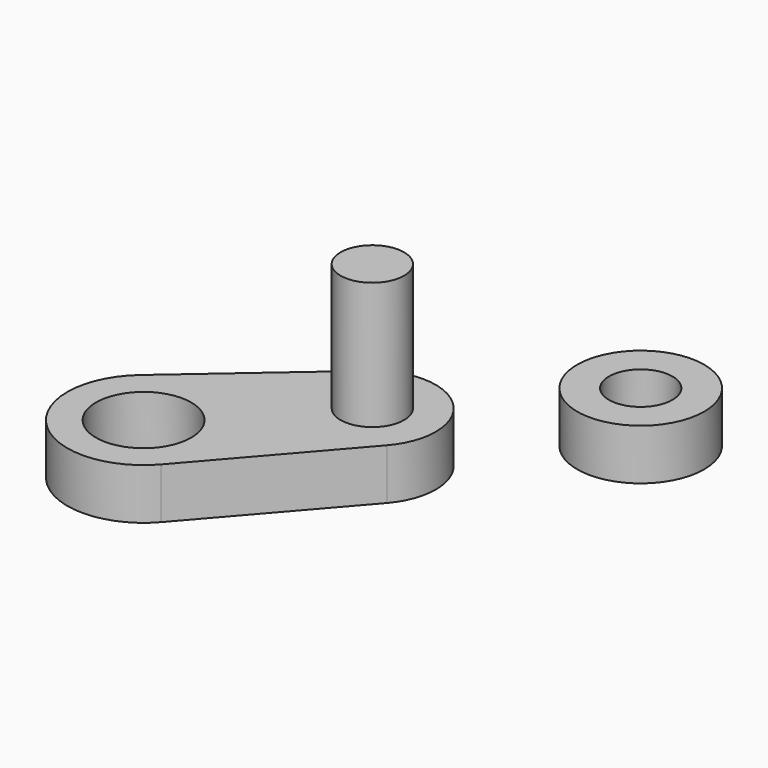
from build123d import *

# Parameters (mm, degrees)
F5_DEPTH = 2
F3_R     = 1.875
F6_DEPTH = 25
F2_R     = 1.25
F7_DEPTH = 7
F8_R     = 2.5
F8_R_2   = 1.25
F9_DEPTH = 2


with BuildPart() as f5:
    # F4 (on Top) → F5 (new body)
    with BuildSketch(Plane.XY):
        with BuildLine():
            Line((-29.638342, 9.888342), (-34.96601, 5.26601))
            ThreePointArc((-34.96601, 5.26601), (-35.12132, 0.87868), (-30.73399, 1.03399))
            Line((-30.73399, 1.03399), (-26.111658, 6.361658))
            ThreePointArc((-26.111658, 6.361658), (-26.232233, 9.767767), (-29.638342, 9.888342))
        make_face()
    extrude(amount=F5_DEPTH)

    # F3 (on Top) → F6 (cut)
    with BuildSketch(Plane.XY):
        with Locations((-33, 3)):
            Circle(F3_R)
    extrude(amount=F6_DEPTH, mode=Mode.SUBTRACT)


with BuildPart() as f7:
    # F2 (on Top) → F7 (new body)
    with BuildSketch(Plane.XY):
        with Locations((-28, 8)):
            Circle(F2_R)
    extrude(amount=F7_DEPTH)


with BuildPart() as f9:
    # F8 (on Top) → F9 (new body)
    with BuildSketch(Plane.XY):
        Circle(F8_R)
        Circle(F8_R_2, mode=Mode.SUBTRACT)
    extrude(amount=F9_DEPTH)


with BuildPart() as f10_1:
    # F10: copy of F9
    add(f9.part.moved(Location((-22.4, 14.2, 0))))


solid = Compound([f5.part, f7.part, f10_1.part])
